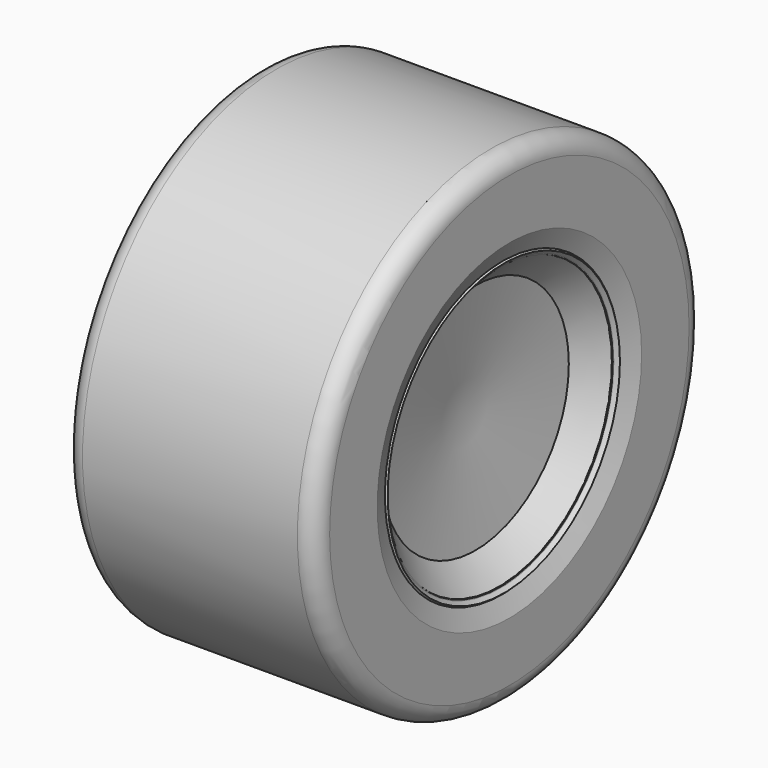
from build123d import *


with BuildPart() as f1:
    # F0 (on Top) → F1 (revolve)
    with BuildSketch(Plane.XY):
        with BuildLine():
            Line((-20.082635805, 31.1975010189), (-20.082635805, 0))
            Line((-20.082635805, 0), (41.3128435612, 0))
            Line((41.3128435612, 0), (46.5951409634, 41.3128472865))
            Line((46.5951409634, 41.3128472865), (56.6058978466, 51.433319901))
            Line((56.6058978466, 51.433319901), (49.632795155, 58.3308274015))
            Line((49.632795155, 58.3308274015), (41.3128435612, 49.9196909368))
            Line((41.3128435612, 49.9196909368), (-11.7626879364, 49.9196909368))
            Line((-11.7626879364, 49.9196909368), (-21.9444004273, 54.7969006002))
            Line((-21.9444004273, 54.7969006002), (-22.1426971376, 55.3451328062))
            ThreePointArc((-22.1426971376, 55.3451328062), (-23.7808139667, 57.1400329878), (-26.2083235749, 57.2508955595))
            Line((-26.2083235749, 57.2508955595), (-30.0072048225, 55.8768324422))
            ThreePointArc((-30.0072048225, 55.8768324422), (-31.8021050042, 54.2387156131), (-31.9129675759, 51.8112060048))
            Line((-31.9129675759, 51.8112060048), (-28.3276029661, 41.8987251224))
            ThreePointArc((-28.3276029661, 41.8987251224), (-28.0637811187, 41.3440213034), (-27.6980848395, 40.8504987352))
            Line((-27.6980848395, 40.8504987352), (-20.9014593363, 33.325659248))
            ThreePointArc((-20.9014593363, 33.325659248), (-20.2944040145, 32.3376248524), (-20.082635805, 31.1975010189))
        make_face()
    revolve(axis=Axis((10.6151038781, 0, 0), (-1, 0, 0)))


with BuildPart() as f2:
    # F0 (on Top) → F2 (revolve)
    with BuildSketch(Plane.XY):
        with BuildLine():
            Line((-20.082635805, 31.1975010189), (-20.082635805, 0))
            Line((-20.082635805, 0), (41.3128435612, 0))
            Line((41.3128435612, 0), (46.5951409634, 41.3128472865))
            Line((46.5951409634, 41.3128472865), (56.6058978466, 51.433319901))
            Line((56.6058978466, 51.433319901), (49.632795155, 58.3308274015))
            Line((49.632795155, 58.3308274015), (41.3128435612, 49.9196909368))
            Line((41.3128435612, 49.9196909368), (-11.7626879364, 49.9196909368))
            Line((-11.7626879364, 49.9196909368), (-21.9444004273, 54.7969006002))
            Line((-21.9444004273, 54.7969006002), (-22.1426971376, 55.3451328062))
            ThreePointArc((-22.1426971376, 55.3451328062), (-23.7808139667, 57.1400329878), (-26.2083235749, 57.2508955595))
            Line((-26.2083235749, 57.2508955595), (-30.0072048225, 55.8768324422))
            ThreePointArc((-30.0072048225, 55.8768324422), (-31.8021050042, 54.2387156131), (-31.9129675759, 51.8112060048))
            Line((-31.9129675759, 51.8112060048), (-28.3276029661, 41.8987251224))
            ThreePointArc((-28.3276029661, 41.8987251224), (-28.0637811187, 41.3440213034), (-27.6980848395, 40.8504987352))
            Line((-27.6980848395, 40.8504987352), (-20.9014593363, 33.325659248))
            ThreePointArc((-20.9014593363, 33.325659248), (-20.2944040145, 32.3376248524), (-20.082635805, 31.1975010189))
        make_face()
    revolve(axis=Axis((10.6151038781, 0, 0), (-1, 0, 0)))


with BuildPart() as f4:
    # F3 (on Top) → F4 (revolve)
    with BuildSketch(Plane.XY):
        with BuildLine():
            Line((-30.2148964256, 79.5677208424), (-30.2148964256, 55.7980276644))
            Line((-30.2148964256, 55.7980276644), (-26.1731911451, 55.3938560188))
            Line((-26.1731911451, 55.3938560188), (-21.9967644662, 53.6424517632))
            Line((-21.9967644662, 53.6424517632), (-10.7305339819, 48.2894517481))
            Line((-10.7305339819, 48.2894517481), (49.351349473, 48.2894517481))
            Line((49.351349473, 48.2894517481), (55.2943013608, 49.9043054879))
            Line((55.2943013608, 49.9043054879), (58.583955127, 58.5478551982))
            Line((58.583955127, 58.5478551982), (58.583955127, 79.5677208424))
            ThreePointArc((58.583955127, 79.5677208424), (56.7240831875, 84.0578489029), (52.233955127, 85.9177208424))
            Line((52.233955127, 85.9177208424), (-23.8648964256, 85.9177208424))
            ThreePointArc((-23.8648964256, 85.9177208424), (-28.3550244861, 84.0578489029), (-30.2148964256, 79.5677208424))
        make_face()
    revolve(axis=Axis((15.6277865171, 0, 0), (1, 0, 0)))


solid = Compound([f1.part, f2.part, f4.part])
